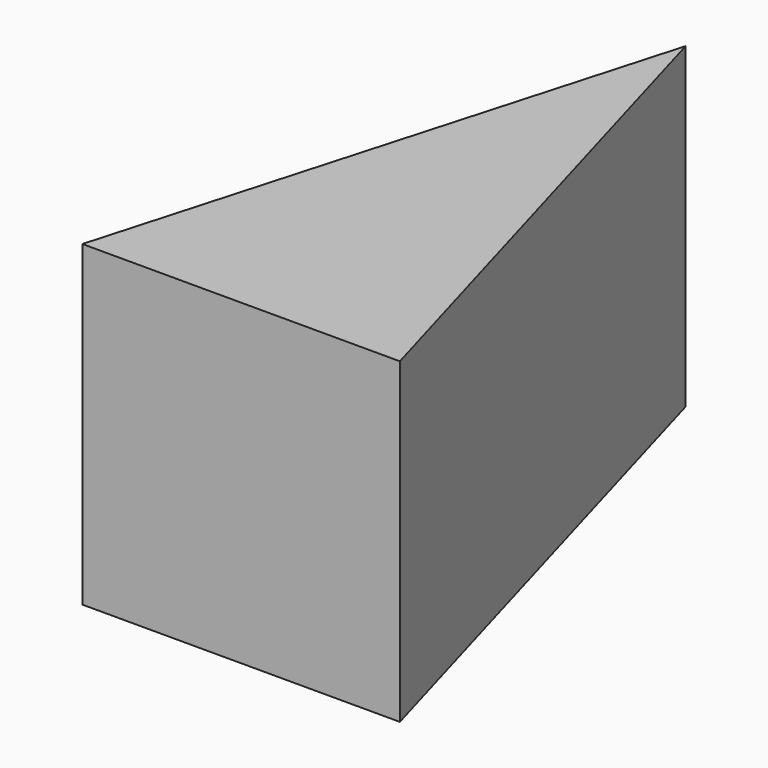
from build123d import *

# Parameters (mm, degrees)
F0_W      = 4
F0_H      = 7
F1_DEPTH  = 4
F6_DEPTH  = 25
F10_DEPTH = 25


with BuildPart() as f1:
    # F0 (on Top) → F1 (new body)
    with BuildSketch(Plane.XY):
        with Locations((2, 3.5)):
            Rectangle(F0_W, F0_H)
    extrude(amount=F1_DEPTH)

    # F5 (on 3pt) → F6 (cut)
    with BuildSketch(Plane(origin=(3.6981132075, 1.0566037736, 0), x_dir=(0.2747211279, -0.9615239476, 0), z_dir=(-0.9615239476, -0.2747211279, 0))):
        Polygon((9.2587498633, -3.3276440962), (7.0551056415, 9.7208032385), (-14.3242254853, 4.7958698124), (-11.358814391, -8.0770972366), align=None)
    extrude(amount=-F6_DEPTH, mode=Mode.SUBTRACT)

    # F9 (on 3pt) → F10 (cut)
    with BuildSketch(Plane(origin=(0, 0, 0), x_dir=(-0.2747211279, -0.9615239476, 0), z_dir=(-0.9615239476, 0.2747211279, 0))):
        Polygon((-10.4345437139, -9.9992519245), (-6.7709279247, -9.4136027619), (6.2972279266, -9.4136027619), (3.8799964823, 17.0888453722), (-6.9220042787, 14.663727954), (-10.4345437139, 17.9398357868), align=None)
    extrude(amount=F10_DEPTH, mode=Mode.SUBTRACT)


solid = f1.part
